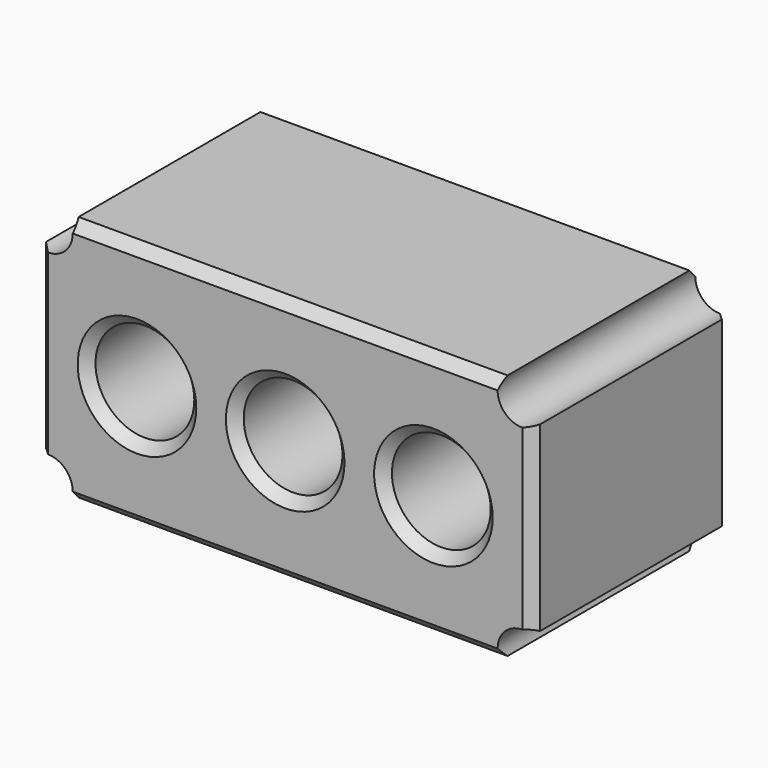
from build123d import *

# Parameters (mm, degrees)
F0_W     = 50
F0_H     = 25
F1_DEPTH = 25
F2_R     = 5
F3_DEPTH = 25
F4_SIZE  = 1
F5_R     = 2.5
F6_DEPTH = 25


with BuildPart() as f1:
    # F0 (on Front) → F1 (new body)
    with BuildSketch(Plane.XZ):
        Rectangle(F0_W, F0_H)
    extrude(amount=F1_DEPTH)

    # F2 (on face) → F3 (cut)
    with BuildSketch(Plane.XZ.offset(25)):
        Circle(F2_R)
        with Locations((15, 0)):
            Circle(F2_R)
        with Locations((-15, 0)):
            Circle(F2_R)
    extrude(amount=-F3_DEPTH, mode=Mode.SUBTRACT)

    # F4
    f4_edges = [f1.edges().sort_by_distance(p)[0] for p in [
        (0, -25, -12.5),
        (-25, -25, 0),
        (25, -25, 0),
        (0, -25, 12.5),
        (-20, -25, 0),
        (-5, -25, 0),
        (10, -25, 0),
        (0, 0, -12.5),
        (-25, 0, 0),
        (25, 0, 0),
        (0, 0, 12.5),
        (-20, 0, 0),
        (-5, 0, 0),
        (10, 0, 0),
    ]]
    chamfer(f4_edges, length=F4_SIZE)

    # F5 (on face) → F6 (cut)
    with BuildSketch(Plane.XZ.offset(25)):
        with Locations((-24, 11.5)):
            Circle(F5_R)
        with Locations((24, 11.5)):
            Circle(F5_R)
        with Locations((24, -11.5)):
            Circle(F5_R)
        with Locations((-24, -11.5)):
            Circle(F5_R)
    extrude(amount=-F6_DEPTH, mode=Mode.SUBTRACT)


solid = f1.part
